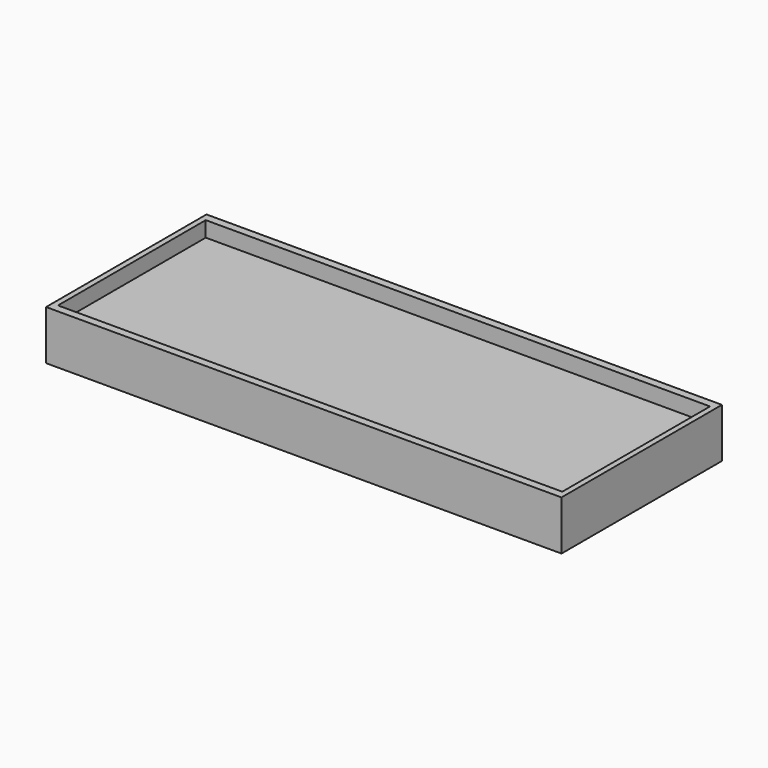
from build123d import *

# Parameters (mm, degrees)
SKETCH002_W      = 323.85
SKETCH002_H      = 118.618
EXTRUDE002_DEPTH = 9.906
SKETCH001_W      = 323.85
SKETCH001_H      = 128.778
EXTRUDE001_DEPTH = 9.906
SKETCH_W         = 330.99375
SKETCH_H         = 128.778
EXTRUDE_DEPTH    = 31.75


with BuildPart() as extrude002:
    # Sketch002 (on Face6 of Cut) → Extrude002 (new body)
    with BuildSketch(Plane.XY.offset(31.75)):
        Rectangle(SKETCH002_W, SKETCH002_H)
    extrude(amount=-EXTRUDE002_DEPTH)


with BuildPart() as extrude001:
    # Sketch001 (on Face6 of Extrude) → Extrude001 (new body)
    with BuildSketch(Plane.XY.offset(31.75)):
        with Locations((334.565625, 0)):
            Rectangle(SKETCH001_W, SKETCH001_H)
    extrude(amount=-EXTRUDE001_DEPTH)


with BuildPart() as cut001:
    # Sketch → Extrude (new body)
    with BuildSketch(Plane.XY):
        Rectangle(SKETCH_W, SKETCH_H)
    extrude(amount=EXTRUDE_DEPTH)

    # Cut: cut Extrude001
    add(extrude001.part, mode=Mode.SUBTRACT)

    # Cut001: cut Extrude002
    add(extrude002.part, mode=Mode.SUBTRACT)


solid = cut001.part
